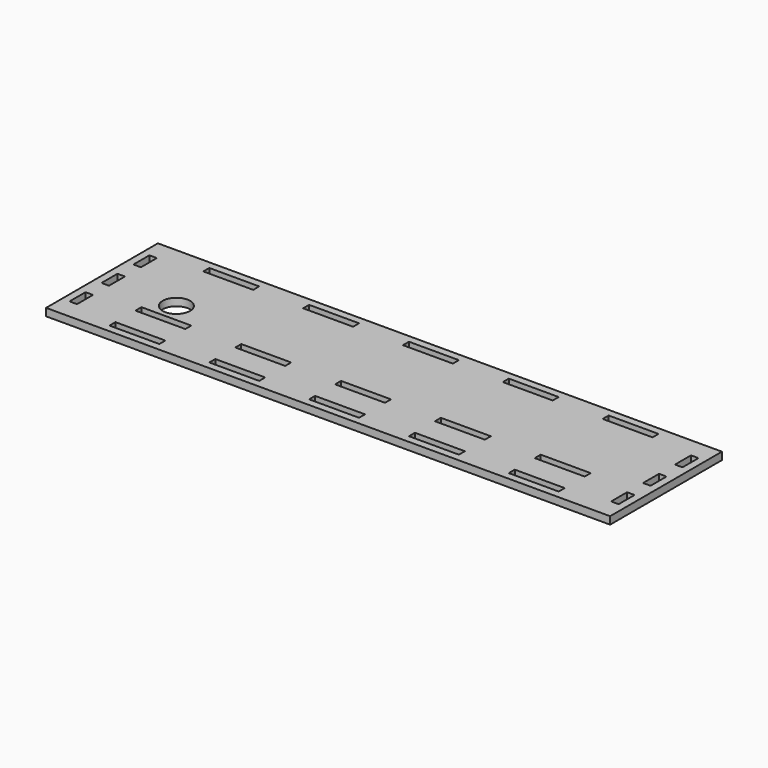
from build123d import *

# Parameters (mm, degrees)
SKETCH_W      = 226
SKETCH_H      = 56
PAD_DEPTH     = 3
SKETCH001_R   = 5.5
SKETCH001_W   = 20
SKETCH001_H   = 3
SKETCH001_W_2 = 3
SKETCH001_H_2 = 8
POCKET_DEPTH  = 5


with BuildPart() as part:
    # Sketch → Pad (new body)
    with BuildSketch(Plane.XY):
        with Locations((113, 28)):
            Rectangle(SKETCH_W, SKETCH_H)
    extrude(amount=PAD_DEPTH)

    # Sketch001 (on Face6 of Pad) → Pocket (cut)
    with BuildSketch(Plane.XY.offset(3)):
        with Locations((31, 26.5)):
            Circle(SKETCH001_R)
        with Locations((33, 4.5)):
            Rectangle(SKETCH001_W, SKETCH001_H)
        with Locations((73, 4.5)):
            Rectangle(SKETCH001_W, SKETCH001_H)
        with Locations((113, 4.5)):
            Rectangle(SKETCH001_W, SKETCH001_H)
        with Locations((153, 4.5)):
            Rectangle(SKETCH001_W, SKETCH001_H)
        with Locations((193, 4.5)):
            Rectangle(SKETCH001_W, SKETCH001_H)
        with Locations((33, 17.5)):
            Rectangle(SKETCH001_W, SKETCH001_H)
        with Locations((73, 17.5)):
            Rectangle(SKETCH001_W, SKETCH001_H)
        with Locations((113, 17.5)):
            Rectangle(SKETCH001_W, SKETCH001_H)
        with Locations((153, 17.5)):
            Rectangle(SKETCH001_W, SKETCH001_H)
        with Locations((193, 17.5)):
            Rectangle(SKETCH001_W, SKETCH001_H)
        with Locations((33, 51.5)):
            Rectangle(SKETCH001_W, SKETCH001_H)
        with Locations((73, 51.5)):
            Rectangle(SKETCH001_W, SKETCH001_H)
        with Locations((113, 51.5)):
            Rectangle(SKETCH001_W, SKETCH001_H)
        with Locations((153, 51.5)):
            Rectangle(SKETCH001_W, SKETCH001_H)
        with Locations((193, 51.5)):
            Rectangle(SKETCH001_W, SKETCH001_H)
        with Locations((4.5, 12)):
            Rectangle(SKETCH001_W_2, SKETCH001_H_2)
        with Locations((4.5, 28)):
            Rectangle(SKETCH001_W_2, SKETCH001_H_2)
        with Locations((4.5, 44)):
            Rectangle(SKETCH001_W_2, SKETCH001_H_2)
        with Locations((221.5, 12)):
            Rectangle(SKETCH001_W_2, SKETCH001_H_2)
        with Locations((221.5, 28)):
            Rectangle(SKETCH001_W_2, SKETCH001_H_2)
        with Locations((221.5, 44)):
            Rectangle(SKETCH001_W_2, SKETCH001_H_2)
    extrude(amount=-POCKET_DEPTH, mode=Mode.SUBTRACT)


solid = part.part
